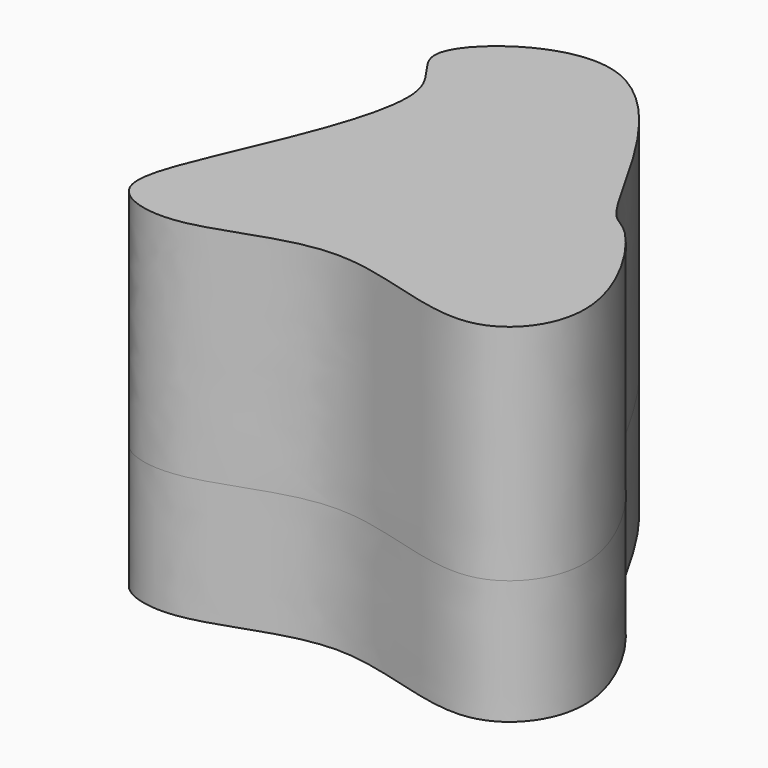
from build123d import *

# Parameters (mm, degrees)
F1_DEPTH = 25.4
F2_DEPTH = 45.72


with BuildPart() as f1:
    # F0 (on Top) → F1 (new body)
    with BuildSketch(Plane.XY):
        with BuildLine():
            add(Edge.make_bspline(
                [(30.9716127813, 0), (25.7850753021, 6.9866384754), (6.1436628888, 54.2410571674), (-33.2877317661, 24.4799365679), (-12.6155570368, 14.2336206134), (-32.9415485566, -26.9605282707), (-37.8755284353, -44.0604238863), (-20.2488540671, -49.0942660104), (5.3233256517, -33.2637524477), (37.1912791522, -51.2843083897), (54.2868965893, -29.0266120644), (36.2168349935, -2.2714405319), (32.8661548966, -2.552084293), (30.9716127813, 0)],
                knots=[0, 0, 0, 0, 0.131798632, 0.2323566435, 0.3001181836, 0.423142143, 0.4967332108, 0.5641942311, 0.6649886923, 0.7704373042, 0.8533545036, 0.9518565016, 1, 1, 1, 1], degree=3))
        make_face()
    extrude(amount=F1_DEPTH)

    # F2 (add): a face of the model
    f2_faces = [f1.faces().sort_by_distance(p)[0] for p in [
        (4.3509569408, -9.9729478445, 25.4),
    ]]
    extrude(f2_faces, amount=F2_DEPTH)


solid = f1.part
